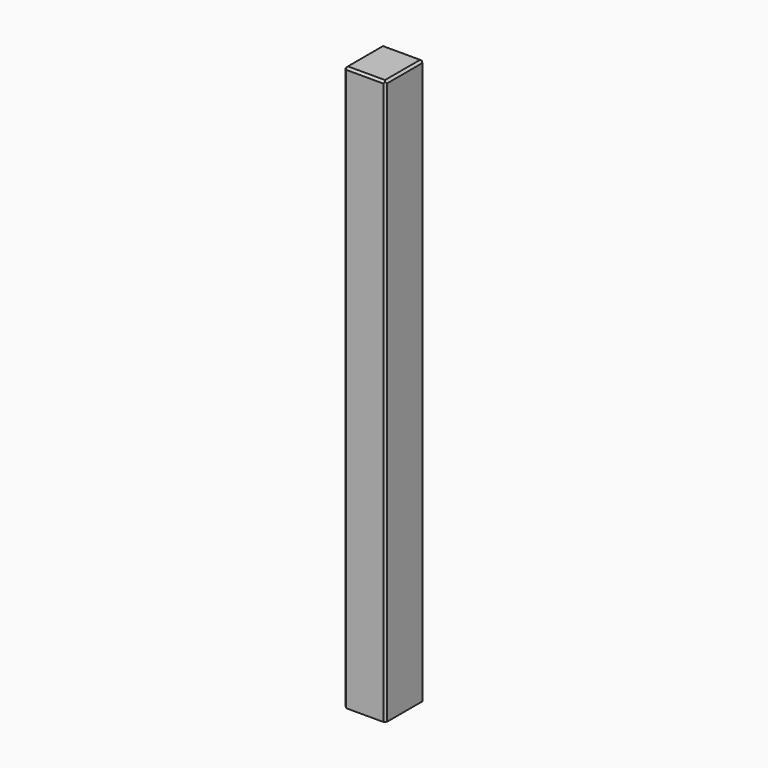
from build123d import *

# Parameters (mm, degrees)
F0_W          = 97.061902
F0_H          = 112.935424
F1_DEPTH      = 88.9
F1_DEPTH_BACK = 1231.9
F2_SIZE       = 5.08
F3_SIZE       = 5.08
F4_SIZE       = 5.08
F5_SIZE       = 5.08
F6_SIZE       = 5.08
F7_SIZE       = 5.08
F8_SIZE       = 5.08
F9_SIZE       = 5.08


with BuildPart() as f1:
    # F0 (on Top) → F1 (new body, two sides)
    with BuildSketch(Plane.XY) as f1_sk:
        Rectangle(F0_W, F0_H)
    extrude(amount=F1_DEPTH)
    extrude(f1_sk.sketch, amount=-F1_DEPTH_BACK)

    # F2
    f2_edges = [f1.edges().sort_by_distance(p)[0] for p in [
        (48.530951, -56.467712, -571.5),
    ]]
    chamfer(f2_edges, length=F2_SIZE)

    # F3
    f3_edges = [f1.edges().sort_by_distance(p)[0] for p in [
        (-48.530951, -56.467712, -571.5),
    ]]
    chamfer(f3_edges, length=F3_SIZE)

    # F4
    f4_edges = [f1.edges().sort_by_distance(p)[0] for p in [
        (-48.530951, 56.467712, -571.5),
    ]]
    chamfer(f4_edges, length=F4_SIZE)

    # F5
    f5_edges = [f1.edges().sort_by_distance(p)[0] for p in [
        (48.530951, 56.467712, -571.5),
    ]]
    chamfer(f5_edges, length=F5_SIZE)

    # F6
    f6_edges = [f1.edges().sort_by_distance(p)[0] for p in [
        (0, 56.467712, 88.9),
    ]]
    chamfer(f6_edges, length=F6_SIZE)

    # F7
    f7_edges = [f1.edges().sort_by_distance(p)[0] for p in [
        (48.530951, 0, 88.9),
    ]]
    chamfer(f7_edges, length=F7_SIZE)

    # F8
    f8_edges = [f1.edges().sort_by_distance(p)[0] for p in [
        (0, -56.467712, 88.9),
    ]]
    chamfer(f8_edges, length=F8_SIZE)

    # F9
    f9_edges = [f1.edges().sort_by_distance(p)[0] for p in [
        (-48.530951, 0, 88.9),
    ]]
    chamfer(f9_edges, length=F9_SIZE)


solid = f1.part
